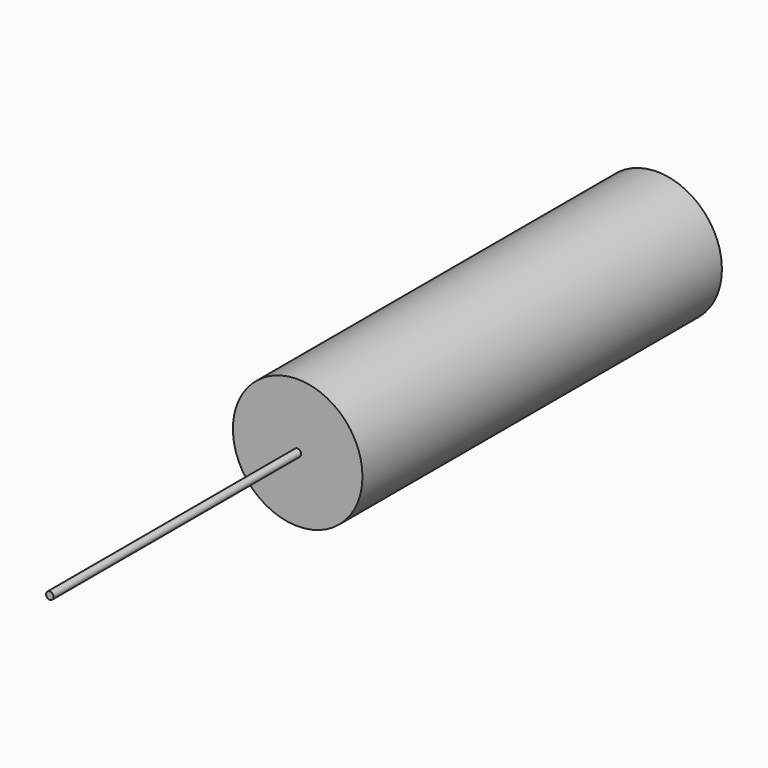
from build123d import *

# Parameters (mm, degrees)
F4_R          = 183.115446
F5_DEPTH      = 1270
F0_R          = 10.580005
F1_DEPTH      = 874.960452
F1_DEPTH_BACK = 1270


with BuildPart() as f5:
    # F4 (on Front) → F5 (new body)
    with BuildSketch(Plane.XZ):
        Circle(F4_R)
    extrude(amount=-F5_DEPTH)

    # F0 (on face) → F1 (join, two sides)
    with BuildSketch(Plane.XZ) as f1_sk:
        with Locations((-0.598388, -0.060181)):
            Circle(F0_R)
    extrude(amount=F1_DEPTH)
    extrude(f1_sk.sketch, amount=-F1_DEPTH_BACK)


solid = f5.part
